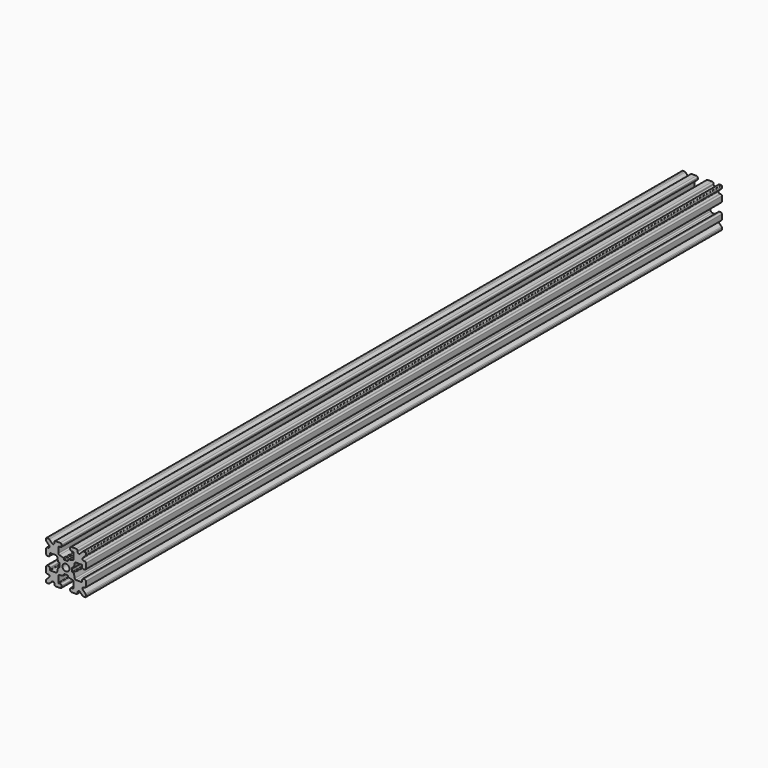
from build123d import *

# Parameters (mm, degrees)
F0_R     = 1.3
F1_DEPTH = 150


with BuildPart() as f1:
    # F0 (on Front) → F1 (new body, symmetric)
    with BuildSketch(Plane.XZ):
        with BuildLine():
            ThreePointArc((0.6255, -2.347065), (0.766921, -2.405643), (0.8255, -2.547065))
            Line((0.8255, -2.547065), (0.8255, -2.774891))
            ThreePointArc((0.8255, -2.774891), (0.869378, -2.899894), (0.981758, -2.970049))
            Line((0.981758, -2.970049), (2.509356, -3.312442))
            ThreePointArc((2.509356, -3.312442), (2.790306, -3.487829), (2.9, -3.800337))
            Line((2.9, -3.800337), (2.9, -5.9))
            ThreePointArc((2.9, -5.9), (2.841421, -6.041421), (2.7, -6.1))
            Line((2.7, -6.1), (2.1, -6.1))
            ThreePointArc((2.1, -6.1), (1.746447, -6.246447), (1.6, -6.6))
            Line((1.6, -6.6), (1.6, -7))
            ThreePointArc((1.6, -7), (1.746447, -7.353553), (2.1, -7.5))
            Line((2.1, -7.5), (3.9, -7.5))
            ThreePointArc((3.9, -7.5), (4.253553, -7.353553), (4.4, -7))
            Line((4.4, -7), (4.4, -6.667767))
            ThreePointArc((4.4, -6.667767), (4.708658, -6.205827), (5.253553, -6.314214))
            Line((5.253553, -6.314214), (6.292893, -7.353553))
            ThreePointArc((6.292893, -7.353553), (6.455105, -7.46194), (6.646447, -7.5))
            Line((6.646447, -7.5), (7.25, -7.5))
            ThreePointArc((7.25, -7.5), (7.426777, -7.426777), (7.5, -7.25))
            Line((7.5, -7.25), (7.5, -6.646447))
            ThreePointArc((7.5, -6.646447), (7.46194, -6.455105), (7.353553, -6.292893))
            Line((7.353553, -6.292893), (6.314214, -5.253553))
            ThreePointArc((6.314214, -5.253553), (6.205827, -4.708658), (6.667767, -4.4))
            Line((6.667767, -4.4), (7, -4.4))
            ThreePointArc((7, -4.4), (7.353553, -4.253553), (7.5, -3.9))
            Line((7.5, -3.9), (7.5, -2.1))
            ThreePointArc((7.5, -2.1), (7.353553, -1.746447), (7, -1.6))
            Line((7, -1.6), (6.6, -1.6))
            ThreePointArc((6.6, -1.6), (6.246447, -1.746447), (6.1, -2.1))
            Line((6.1, -2.1), (6.1, -2.7))
            ThreePointArc((6.1, -2.7), (6.041421, -2.841421), (5.9, -2.9))
            Line((5.9, -2.9), (3.800337, -2.9))
            ThreePointArc((3.800337, -2.9), (3.487829, -2.790306), (3.312442, -2.509356))
            Line((3.312442, -2.509356), (2.970049, -0.981758))
            ThreePointArc((2.970049, -0.981758), (2.899894, -0.869378), (2.774891, -0.8255))
            Line((2.774891, -0.8255), (2.547065, -0.8255))
            ThreePointArc((2.547065, -0.8255), (2.405643, -0.766921), (2.347065, -0.6255))
            Line((2.347065, -0.6255), (2.347065, 0.6255))
            ThreePointArc((2.347065, 0.6255), (2.405643, 0.766921), (2.547065, 0.8255))
            Line((2.547065, 0.8255), (2.774891, 0.8255))
            ThreePointArc((2.774891, 0.8255), (2.899894, 0.869378), (2.970049, 0.981758))
            Line((2.970049, 0.981758), (3.312442, 2.509356))
            ThreePointArc((3.312442, 2.509356), (3.487829, 2.790306), (3.800337, 2.9))
            Line((3.800337, 2.9), (5.9, 2.9))
            ThreePointArc((5.9, 2.9), (6.041421, 2.841421), (6.1, 2.7))
            Line((6.1, 2.7), (6.1, 2.1))
            ThreePointArc((6.1, 2.1), (6.246447, 1.746447), (6.6, 1.6))
            Line((6.6, 1.6), (7, 1.6))
            ThreePointArc((7, 1.6), (7.353553, 1.746447), (7.5, 2.1))
            Line((7.5, 2.1), (7.5, 3.9))
            ThreePointArc((7.5, 3.9), (7.353553, 4.253553), (7, 4.4))
            Line((7, 4.4), (6.667767, 4.4))
            ThreePointArc((6.667767, 4.4), (6.205827, 4.708658), (6.314214, 5.253553))
            Line((6.314214, 5.253553), (7.353553, 6.292893))
            ThreePointArc((7.353553, 6.292893), (7.46194, 6.455105), (7.5, 6.646447))
            Line((7.5, 6.646447), (7.5, 7.25))
            ThreePointArc((7.5, 7.25), (7.426777, 7.426777), (7.25, 7.5))
            Line((7.25, 7.5), (6.646447, 7.5))
            ThreePointArc((6.646447, 7.5), (6.455105, 7.46194), (6.292893, 7.353553))
            Line((6.292893, 7.353553), (5.253553, 6.314214))
            ThreePointArc((5.253553, 6.314214), (4.708658, 6.205827), (4.4, 6.667767))
            Line((4.4, 6.667767), (4.4, 7))
            ThreePointArc((4.4, 7), (4.253553, 7.353553), (3.9, 7.5))
            Line((3.9, 7.5), (2.1, 7.5))
            ThreePointArc((2.1, 7.5), (1.746447, 7.353553), (1.6, 7))
            Line((1.6, 7), (1.6, 6.6))
            ThreePointArc((1.6, 6.6), (1.746447, 6.246447), (2.1, 6.1))
            Line((2.1, 6.1), (2.7, 6.1))
            ThreePointArc((2.7, 6.1), (2.841421, 6.041421), (2.9, 5.9))
            Line((2.9, 5.9), (2.9, 3.800337))
            ThreePointArc((2.9, 3.800337), (2.790306, 3.487829), (2.509356, 3.312442))
            Line((2.509356, 3.312442), (0.981758, 2.970049))
            ThreePointArc((0.981758, 2.970049), (0.869378, 2.899894), (0.8255, 2.774891))
            Line((0.8255, 2.774891), (0.8255, 2.547065))
            ThreePointArc((0.8255, 2.547065), (0.766921, 2.405643), (0.6255, 2.347065))
            Line((0.6255, 2.347065), (-0.6255, 2.347065))
            ThreePointArc((-0.6255, 2.347065), (-0.766921, 2.405643), (-0.8255, 2.547065))
            Line((-0.8255, 2.547065), (-0.8255, 2.774891))
            ThreePointArc((-0.8255, 2.774891), (-0.869378, 2.899894), (-0.981758, 2.970049))
            Line((-0.981758, 2.970049), (-2.509356, 3.312442))
            ThreePointArc((-2.509356, 3.312442), (-2.790306, 3.487829), (-2.9, 3.800337))
            Line((-2.9, 3.800337), (-2.9, 5.9))
            ThreePointArc((-2.9, 5.9), (-2.841421, 6.041421), (-2.7, 6.1))
            Line((-2.7, 6.1), (-2.1, 6.1))
            ThreePointArc((-2.1, 6.1), (-1.746447, 6.246447), (-1.6, 6.6))
            Line((-1.6, 6.6), (-1.6, 7))
            ThreePointArc((-1.6, 7), (-1.746447, 7.353553), (-2.1, 7.5))
            Line((-2.1, 7.5), (-3.9, 7.5))
            ThreePointArc((-3.9, 7.5), (-4.253553, 7.353553), (-4.4, 7))
            Line((-4.4, 7), (-4.4, 6.667767))
            ThreePointArc((-4.4, 6.667767), (-4.708658, 6.205827), (-5.253553, 6.314214))
            Line((-5.253553, 6.314214), (-6.292893, 7.353553))
            ThreePointArc((-6.292893, 7.353553), (-6.455105, 7.46194), (-6.646447, 7.5))
            Line((-6.646447, 7.5), (-7.25, 7.5))
            ThreePointArc((-7.25, 7.5), (-7.426777, 7.426777), (-7.5, 7.25))
            Line((-7.5, 7.25), (-7.5, 6.646447))
            ThreePointArc((-7.5, 6.646447), (-7.46194, 6.455105), (-7.353553, 6.292893))
            Line((-7.353553, 6.292893), (-6.314214, 5.253553))
            ThreePointArc((-6.314214, 5.253553), (-6.205827, 4.708658), (-6.667767, 4.4))
            Line((-6.667767, 4.4), (-7, 4.4))
            ThreePointArc((-7, 4.4), (-7.353553, 4.253553), (-7.5, 3.9))
            Line((-7.5, 3.9), (-7.5, 2.1))
            ThreePointArc((-7.5, 2.1), (-7.353553, 1.746447), (-7, 1.6))
            Line((-7, 1.6), (-6.6, 1.6))
            ThreePointArc((-6.6, 1.6), (-6.246447, 1.746447), (-6.1, 2.1))
            Line((-6.1, 2.1), (-6.1, 2.7))
            ThreePointArc((-6.1, 2.7), (-6.041421, 2.841421), (-5.9, 2.9))
            Line((-5.9, 2.9), (-3.800337, 2.9))
            ThreePointArc((-3.800337, 2.9), (-3.487829, 2.790306), (-3.312442, 2.509356))
            Line((-3.312442, 2.509356), (-2.970049, 0.981758))
            ThreePointArc((-2.970049, 0.981758), (-2.899894, 0.869378), (-2.774891, 0.8255))
            Line((-2.774891, 0.8255), (-2.547065, 0.8255))
            ThreePointArc((-2.547065, 0.8255), (-2.405643, 0.766921), (-2.347065, 0.6255))
            Line((-2.347065, 0.6255), (-2.347065, -0.6255))
            ThreePointArc((-2.347065, -0.6255), (-2.405643, -0.766921), (-2.547065, -0.8255))
            Line((-2.547065, -0.8255), (-2.774891, -0.8255))
            ThreePointArc((-2.774891, -0.8255), (-2.899894, -0.869378), (-2.970049, -0.981758))
            Line((-2.970049, -0.981758), (-3.312442, -2.509356))
            ThreePointArc((-3.312442, -2.509356), (-3.487829, -2.790306), (-3.800337, -2.9))
            Line((-3.800337, -2.9), (-5.9, -2.9))
            ThreePointArc((-5.9, -2.9), (-6.041421, -2.841421), (-6.1, -2.7))
            Line((-6.1, -2.7), (-6.1, -2.1))
            ThreePointArc((-6.1, -2.1), (-6.246447, -1.746447), (-6.6, -1.6))
            Line((-6.6, -1.6), (-7, -1.6))
            ThreePointArc((-7, -1.6), (-7.353553, -1.746447), (-7.5, -2.1))
            Line((-7.5, -2.1), (-7.5, -3.9))
            ThreePointArc((-7.5, -3.9), (-7.353553, -4.253553), (-7, -4.4))
            Line((-7, -4.4), (-6.667767, -4.4))
            ThreePointArc((-6.667767, -4.4), (-6.205827, -4.708658), (-6.314214, -5.253553))
            Line((-6.314214, -5.253553), (-7.353553, -6.292893))
            ThreePointArc((-7.353553, -6.292893), (-7.46194, -6.455105), (-7.5, -6.646447))
            Line((-7.5, -6.646447), (-7.5, -7.25))
            ThreePointArc((-7.5, -7.25), (-7.426777, -7.426777), (-7.25, -7.5))
            Line((-7.25, -7.5), (-6.646447, -7.5))
            ThreePointArc((-6.646447, -7.5), (-6.455105, -7.46194), (-6.292893, -7.353553))
            Line((-6.292893, -7.353553), (-5.253553, -6.314214))
            ThreePointArc((-5.253553, -6.314214), (-4.708658, -6.205827), (-4.4, -6.667767))
            Line((-4.4, -6.667767), (-4.4, -7))
            ThreePointArc((-4.4, -7), (-4.253553, -7.353553), (-3.9, -7.5))
            Line((-3.9, -7.5), (-2.1, -7.5))
            ThreePointArc((-2.1, -7.5), (-1.746447, -7.353553), (-1.6, -7))
            Line((-1.6, -7), (-1.6, -6.6))
            ThreePointArc((-1.6, -6.6), (-1.746447, -6.246447), (-2.1, -6.1))
            Line((-2.1, -6.1), (-2.7, -6.1))
            ThreePointArc((-2.7, -6.1), (-2.841421, -6.041421), (-2.9, -5.9))
            Line((-2.9, -5.9), (-2.9, -3.800337))
            ThreePointArc((-2.9, -3.800337), (-2.790306, -3.487829), (-2.509356, -3.312442))
            Line((-2.509356, -3.312442), (-0.981758, -2.970049))
            ThreePointArc((-0.981758, -2.970049), (-0.869378, -2.899894), (-0.8255, -2.774891))
            Line((-0.8255, -2.774891), (-0.8255, -2.547065))
            ThreePointArc((-0.8255, -2.547065), (-0.766921, -2.405643), (-0.6255, -2.347065))
            Line((-0.6255, -2.347065), (0.6255, -2.347065))
        make_face()
        Circle(F0_R, mode=Mode.SUBTRACT)
    extrude(amount=F1_DEPTH, both=True)


solid = f1.part
